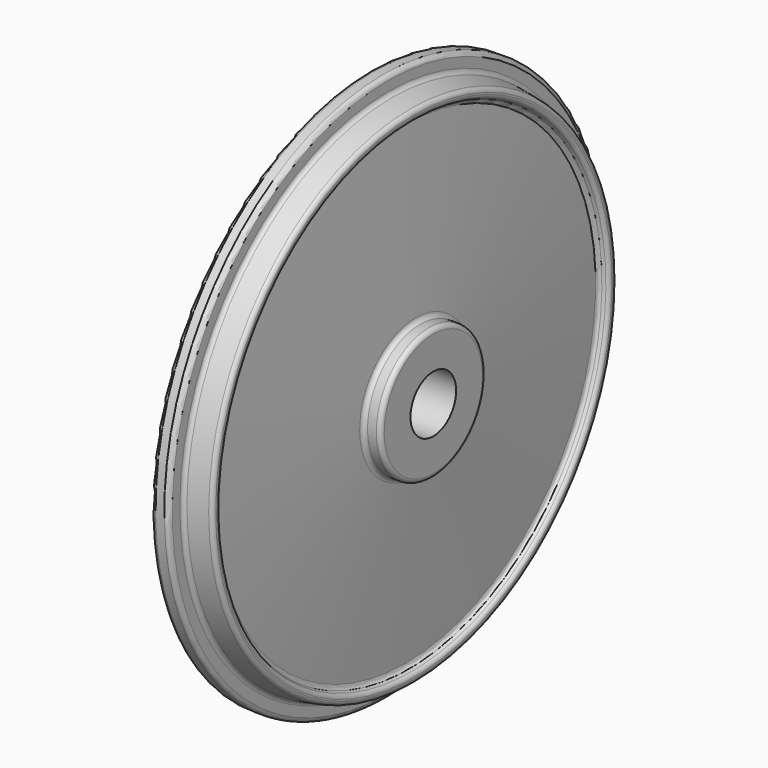
from build123d import *

# Parameters (mm, degrees)
F4_D = 130


with BuildPart() as f2:
    # F0 (on Front) → F2 (revolve)
    with BuildSketch(Plane.XZ):
        with BuildLine():
            Line((-24.2719111572, 624.8339422107), (-44.2714438474, 624.6972228764))
            ThreePointArc((-44.2714438474, 624.6972228764), (-51.3223243573, 621.72002154), (-54.2028505253, 614.6290968642))
            Line((-54.2028505253, 614.6290968642), (-50.001168302, 0))
            Line((-50.001168302, 0), (50.001168302, 0))
            Line((50.001168302, 0), (88.9766839767, 0))
            Line((88.9766839767, 0), (88.9766839767, 139.9314050751))
            ThreePointArc((88.9766839767, 139.9314050751), (86.0235415504, 147.0266005154), (78.9083243095, 149.9311714202))
            Line((78.9083243095, 149.9311714202), (58.9773849415, 149.7949209985))
            ThreePointArc((58.9773849415, 149.7949209985), (51.8864602657, 152.6754471665), (48.9092589293, 159.7263276764))
            Line((48.9092589293, 159.7263276764), (26.6250546653, 540.5062712109))
            ThreePointArc((26.6250546653, 540.5062712109), (28.1755987995, 546.4659081949), (32.9238227669, 550.3871107208))
            Line((32.9238227669, 550.3871107208), (39.8402799848, 553.1280307462))
            ThreePointArc((39.8402799848, 553.1280307462), (44.4469719748, 556.8334088558), (46.155895, 562.4930042582))
            Line((46.155895, 562.4930042582), (46.130408299, 566.2212414858))
            ThreePointArc((46.130408299, 566.2212414858), (43.746966648, 572.6329742682), (37.7997620266, 576.0125997752))
            Line((37.7997620266, 576.0125997752), (-5.7245865643, 583.380697342))
            ThreePointArc((-5.7245865643, 583.380697342), (-11.6717911857, 586.760322849), (-14.0552328367, 593.1720556314))
            Line((-14.0552328367, 593.1720556314), (-14.203785145, 614.9025355328))
            ThreePointArc((-14.203785145, 614.9025355328), (-17.1809864814, 621.9534160427), (-24.2719111572, 624.8339422107))
        make_face()
    revolve(axis=Axis((0, 0, 0), (1, 0, 0)))

    # F4 (through all)
    with Locations(Plane.YZ.offset(88.9766839767)):
        with Locations((0, 0)):
            Hole(F4_D / 2)


solid = f2.part
